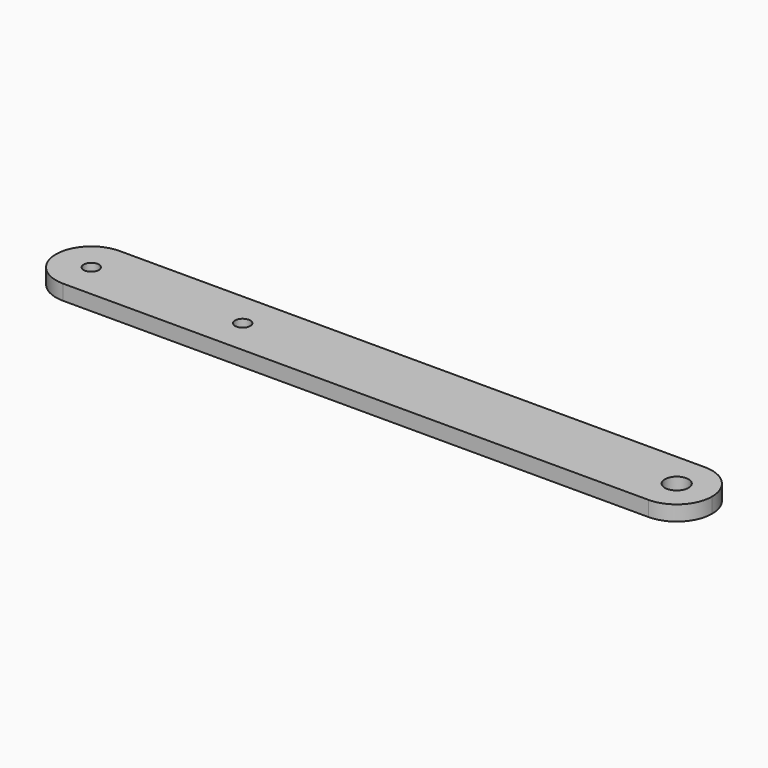
from build123d import *

# Parameters (mm, degrees)
F0_R     = 1.5
F0_R_2   = 2.334565
F1_DEPTH = 3


with BuildPart() as f1:
    # F0 (on Top) → F1 (new body)
    with BuildSketch(Plane.XY):
        with BuildLine():
            ThreePointArc((-65, 0), (-62.949747, -4.949747), (-58, -7))
            Line((-58, -7), (58, -7))
            ThreePointArc((58, -7), (62.949747, -4.949747), (65, 0))
            ThreePointArc((65, 0), (62.949747, 4.949747), (58, 7))
            Line((58, 7), (-58, 7))
            ThreePointArc((-58, 7), (-62.949747, 4.949747), (-65, 0))
        make_face()
        with Locations((-58, 0)):
            Circle(F0_R, mode=Mode.SUBTRACT)
        with Locations((-28, 0)):
            Circle(F0_R, mode=Mode.SUBTRACT)
        with Locations((58, 0)):
            Circle(F0_R_2, mode=Mode.SUBTRACT)
    extrude(amount=F1_DEPTH)


solid = f1.part
